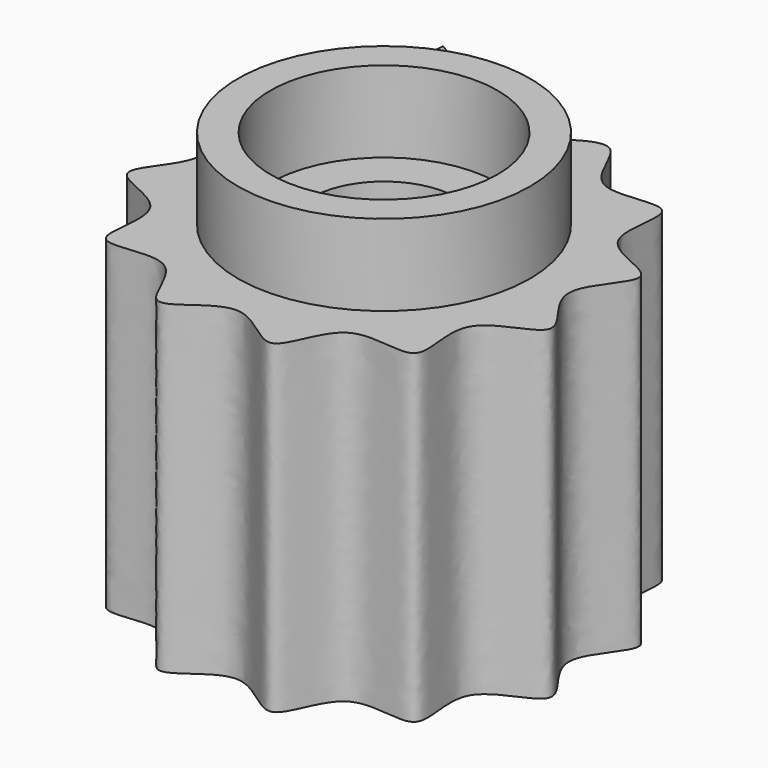
from build123d import *

# Parameters (mm, degrees)
F1_DEPTH = 10
F2_R     = 2.25
F3_DEPTH = 8
F2_R_2   = 4.5
F2_R_3   = 3.5
F4_DEPTH = 2.5


with BuildPart() as f1:
    # F0 (on Top) → F1 (new body)
    with BuildSketch(Plane.XY):
        with BuildLine():
            add(Edge.make_bspline(
                [(0, 5.694019), (0.671615, 6.220991), (2.014845, 7.274936), (2.390638, 4.206239), (5.504659, 5.4871), (4.140707, 2.395343), (7.519504, 2.013584), (4.781276, 0.000338), (7.519504, -2.014936), (4.140707, -2.390614), (5.50466, -5.504666), (2.390637, -4.140704), (2.014851, -7.519508), (-2.1e-05, -4.781264), (-2.014767, -7.519549), (-2.390931, -4.140538), (-5.503567, -5.505289), (-4.144781, -2.388286), (-7.504297, -2.023625), (-4.838029, 0.032766), (-7.307702, 1.892561), (-5.723344, 2.52886), (-4.931165, 2.847009)],
                knots=[0, 0, 0, 0, 1.919119, 3.838239, 5.757358, 7.676477, 9.595597, 11.514716, 13.433835, 15.352954, 17.272074, 19.191193, 21.110312, 23.029432, 24.948551, 26.86767, 28.78679, 30.705909, 32.625028, 34.544147, 36.463267, 38.382386, 38.382386, 38.382386, 38.382386], degree=3))
            Line((0, 5.694019), (-4.700037, 8.140704))
            Line((-4.700037, 8.140704), (-4.931165, 2.847009))
        make_face()
    extrude(amount=F1_DEPTH)

    # F2 (on face) → F3 (cut)
    with BuildSketch(Plane.XY.offset(10)):
        Circle(F2_R)
    extrude(amount=-F3_DEPTH, mode=Mode.SUBTRACT)

    # F2 (on face) → F4 (join)
    with BuildSketch(Plane.XY.offset(10)):
        Circle(F2_R_2)
        Circle(F2_R_3, mode=Mode.SUBTRACT)
    extrude(amount=F4_DEPTH)


solid = f1.part
